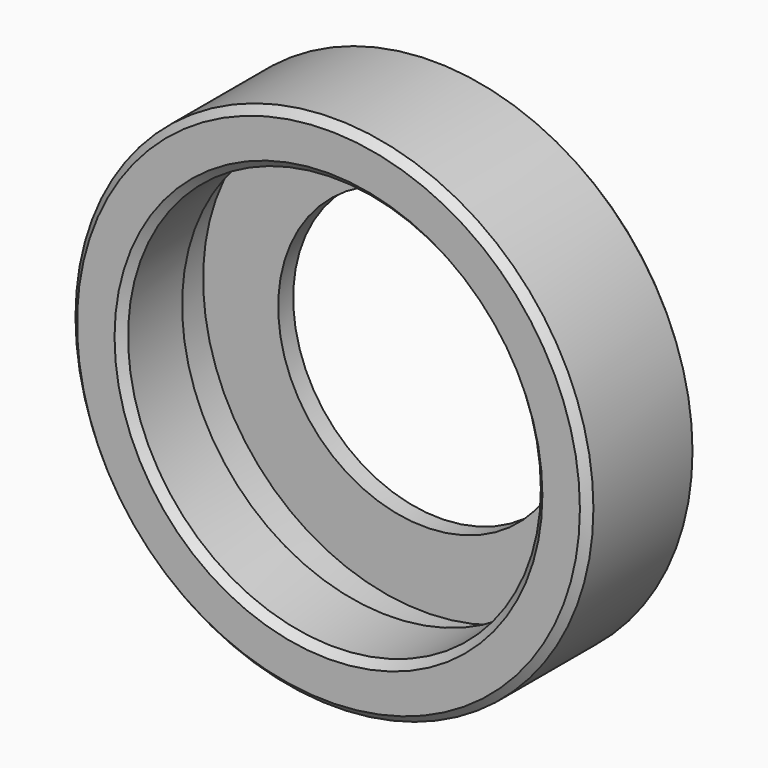
from build123d import *

# Parameters (mm, degrees)
F0_R     = 34.5
F1_DEPTH = 18.5
F2_R     = 27.5
F3_DEPTH = 10
F4_R     = 29.5
F5_DEPTH = 6
F6_R     = 19.5
F7_DEPTH = 2.501
F8_SIZE  = 1


with BuildPart() as f1:
    # F0 (on Front) → F1 (new body)
    with BuildSketch(Plane.XZ):
        Circle(F0_R)
    extrude(amount=F1_DEPTH)

    # F2 (on face) → F3 (cut)
    with BuildSketch(Plane.XZ.offset(18.5)):
        Circle(F2_R)
    extrude(amount=-F3_DEPTH, mode=Mode.SUBTRACT)

    # F4 (on face) → F5 (cut)
    with BuildSketch(Plane.XZ.offset(8.5)):
        Circle(F4_R)
    extrude(amount=-F5_DEPTH, mode=Mode.SUBTRACT)

    # F6 (on face) → F7 (cut, through all)
    with BuildSketch(Plane.XZ.offset(2.5)):
        Circle(F6_R)
    extrude(amount=-F7_DEPTH, mode=Mode.SUBTRACT)

    # F8
    f8_edges = [f1.edges().sort_by_distance(p)[0] for p in [
        (-34.5, -18.5, 0),
        (-27.5, -18.5, 0),
        (-34.5, 0, 0),
    ]]
    chamfer(f8_edges, length=F8_SIZE)


solid = f1.part
